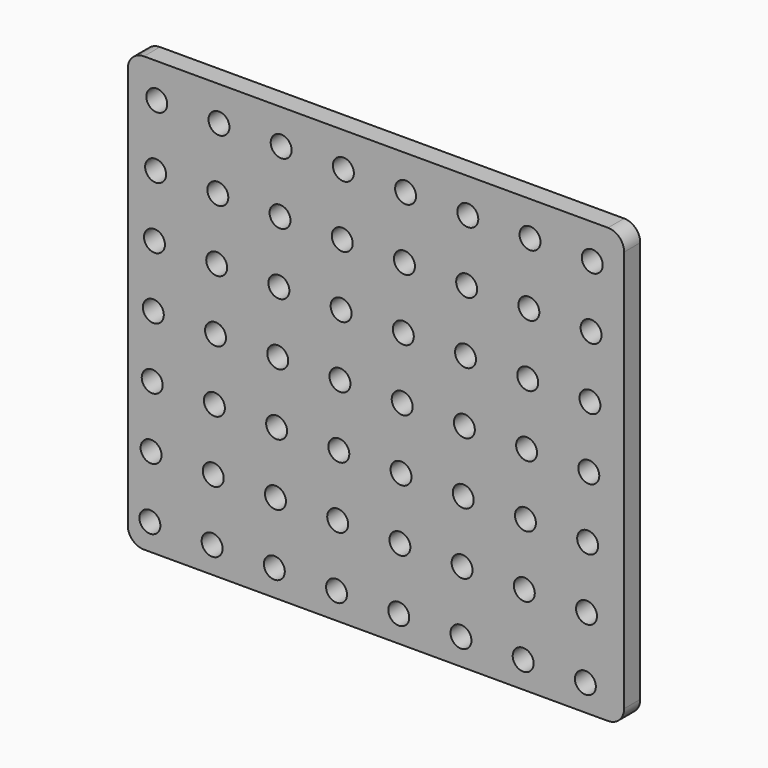
from build123d import *

# Parameters (mm, degrees)
F0_W     = 78.232
F0_H     = 68.43406
F1_DEPTH = 3.175
F3_D     = 3.302
F4_R     = 2.54


with BuildPart() as f1:
    # F0 (on Front) → F1 (new body)
    with BuildSketch(Plane.XZ):
        Rectangle(F0_W, F0_H)
    extrude(amount=F1_DEPTH)

    # F3 (through all)
    with Locations(Plane.XZ.offset(3.175)):
        with Locations((3.775014, -20.257733), (33.008497, -30.060486), (-24.919317, 18.953278), (-6.029386, -20.257733), (33.547649, -0.652228), (-25.817903, -30.060486), (-15.654069, -10.454981), (23.743249, -0.652228), (-5.849669, -10.454981), (-5.669951, -0.652228), (14.478, 28.75603), (4.134449, -0.652228), (-35.622303, -30.060486), (3.954731, -10.454981), (33.727366, 9.150525), (24.102683, 18.953278), (-34.903434, 9.150525), (-35.442586, -20.257733), (-25.638186, -20.257733), (34.0868, 28.75603), (24.2824, 28.75603), (4.6736, 28.75603), (-5.1308, 28.75603), (33.907083, 18.953278), (-5.490234, 9.150525), (13.399697, -30.060486), (-14.9352, 28.75603), (-24.7396, 28.75603), (-35.262869, -10.454981), (-25.458469, -10.454981), (4.314166, 9.150525), (-5.310517, 18.953278), (23.204097, -30.060486), (13.579414, -20.257733), (-35.083151, -0.652228), (4.493883, 18.953278), (-16.013503, -30.060486), (13.759131, -10.454981), (23.383814, -20.257733), (-25.278751, -0.652228), (-15.474351, -0.652228), (14.298283, 18.953278), (33.188214, -20.257733), (-6.209103, -30.060486), (-15.833786, -20.257733), (-34.544, 28.75603), (13.938849, -0.652228), (23.563531, -10.454981), (-25.099034, 9.150525), (-15.294634, 9.150525), (3.595297, -30.060486), (33.367931, -10.454981), (-34.723717, 18.953278), (23.922966, 9.150525), (-15.114917, 18.953278), (14.118566, 9.150525)):
            Hole(F3_D / 2)

    # F4
    f4_edges = [f1.edges().sort_by_distance(p)[0] for p in [
        (-39.116, -1.5875, 34.21703),
        (-39.116, -1.5875, -34.21703),
        (39.116, -1.5875, -34.21703),
        (39.116, -1.5875, 34.21703),
    ]]
    fillet(f4_edges, radius=F4_R)


solid = f1.part
